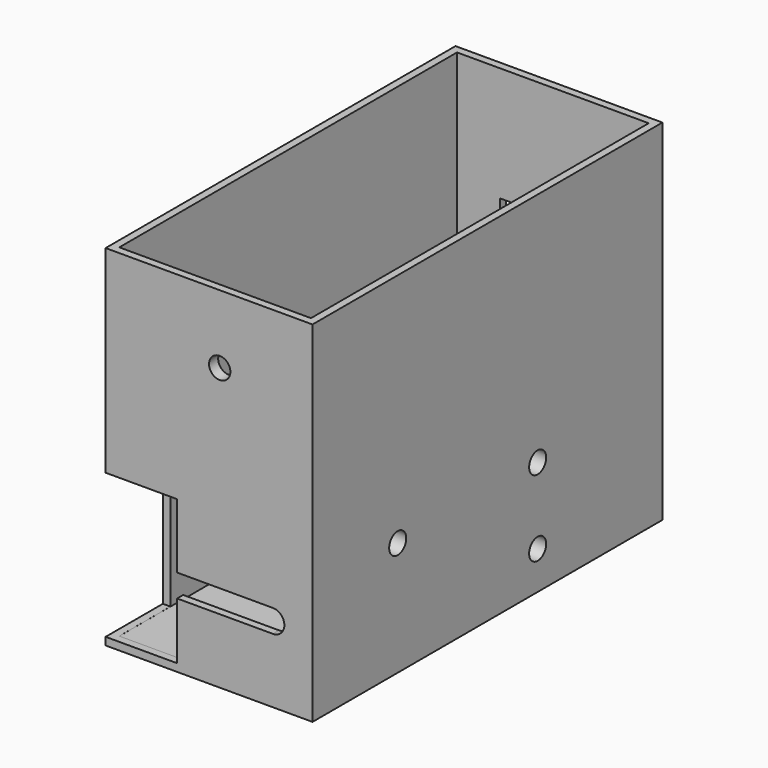
from build123d import *

# Parameters (mm, degrees)
SKETCH_W        = 54.4
SKETCH_H        = 115
PAD_DEPTH       = 92
SKETCH001_W     = 50.4
SKETCH001_H     = 111
POCKET_DEPTH    = 90
POCKET001_DEPTH = 3
SKETCH003_R     = 1.7
POCKET002_DEPTH = 3
POCKET003_DEPTH = 18.99
POCKET004_DEPTH = 2.02
SKETCH006_R     = 5
SKETCH006_R_2   = 1.7
PAD001_DEPTH    = 1.6
POCKET005_DEPTH = 1.8
SKETCH008_R     = 7
PAD002_DEPTH    = 1
PAD003_DEPTH    = 8
POCKET006_DEPTH = 1.5
SKETCH011_R     = 2.8
POCKET007_DEPTH = 54.401
SKETCH012_R     = 7
PAD004_DEPTH    = 1
SKETCH013_R     = 2.8
POCKET008_DEPTH = 4
CHAMFER_SIZE    = 0.98
CHAMFER001_SIZE = 1.58


with BuildPart() as part:
    # Sketch → Pad (new body)
    with BuildSketch(Plane.XY):
        with Locations((27.2, 57.5)):
            Rectangle(SKETCH_W, SKETCH_H)
    extrude(amount=PAD_DEPTH)

    # Sketch001 → Pocket (cut)
    with BuildSketch(Plane.XY.offset(92)):
        with Locations((27.2, 57.5)):
            Rectangle(SKETCH001_W, SKETCH001_H)
    extrude(amount=-POCKET_DEPTH, mode=Mode.SUBTRACT)

    # Sketch002 → Pocket001 (cut)
    with BuildSketch(Plane.XZ):
        with BuildLine():
            Line((3, 23), (44, 23))
            ThreePointArc((44, 17), (47, 20), (44, 23))
            Line((44, 17), (3, 17))
            Line((3, 17), (3, 23))
        make_face()
    extrude(amount=-POCKET001_DEPTH, mode=Mode.SUBTRACT)

    # Sketch003 → Pocket002 (cut)
    with BuildSketch(Plane.XZ.offset(-115)):
        with Locations((7.2, 38)):
            Circle(SKETCH003_R)
        with Locations((47.2, 38)):
            Circle(SKETCH003_R)
        Polygon((13.3, 61.9), (41.1, 61.9), (41.1, 19.85), (35.35, 14.1), (19.05, 14.1), (13.3, 19.85), align=None)
    extrude(amount=POCKET002_DEPTH, mode=Mode.SUBTRACT)

    # Sketch004 → Pocket003 (cut, symmetric)
    with BuildSketch(Plane.XY.offset(21)):
        Polygon((0, 0), (18.8, 0), (18.8, 2.4), (2.4, 18.8), (0, 18.8), align=None)
    extrude(amount=POCKET003_DEPTH, both=True, mode=Mode.SUBTRACT)

    # Sketch005 → Pocket004 (cut)
    with BuildSketch(Plane.YZ):
        with BuildLine():
            Line((106, 29.757359), (106, 19))
            ThreePointArc((101, 14), (104.535534, 15.464466), (106, 19))
            Line((101, 14), (93, 14))
            ThreePointArc((88, 19), (89.464466, 15.464466), (93, 14))
            Line((88, 19), (88, 29.757359))
            ThreePointArc((89.464466, 33.292893), (88.380602, 31.670776), (88, 29.757359))
            Line((89.464466, 33.292893), (95.585786, 39.414214))
            ThreePointArc((98.414214, 39.414214), (97, 40), (95.585786, 39.414214))
            Line((98.414214, 39.414214), (104.535534, 33.292893))
            ThreePointArc((106, 29.757359), (105.619398, 31.670777), (104.535534, 33.292893))
        make_face()
    extrude(amount=POCKET004_DEPTH, mode=Mode.SUBTRACT)

    # Sketch006 → Pad001 (join)
    with BuildSketch(Plane.XZ.offset(-113)):
        with Locations((7.2, 38)):
            Circle(SKETCH006_R)
        with Locations((7.2, 38)):
            Circle(SKETCH006_R_2, mode=Mode.SUBTRACT)
        with Locations((47.2, 38)):
            Circle(SKETCH006_R)
        with Locations((47.2, 38)):
            Circle(SKETCH006_R_2, mode=Mode.SUBTRACT)
    extrude(amount=PAD001_DEPTH)

    # Sketch007 → Pocket005 (cut)
    with BuildSketch(Plane.XZ.offset(-111.4)):
        Polygon((7.2, 41.290897), (4.35, 39.645448), (4.35, 36.354552), (7.2, 34.709103), (10.05, 36.354552), (10.05, 39.645448), align=None)
        Polygon((47.2, 41.290897), (44.35, 39.645448), (44.35, 36.354552), (47.2, 34.709103), (50.05, 36.354552), (50.05, 39.645448), align=None)
    extrude(amount=-POCKET005_DEPTH, mode=Mode.SUBTRACT)

    # Sketch008 → Pad002 (join)
    with BuildSketch(Plane.YZ.offset(2)):
        with Locations((28, 30)):
            Circle(SKETCH008_R)
        with Locations((74, 30)):
            Circle(SKETCH008_R)
        with Locations((74, 10)):
            Circle(SKETCH008_R)
    extrude(amount=PAD002_DEPTH)

    # Sketch009 → Pad003 (join)
    with BuildSketch(Plane.YZ.offset(52.4)):
        with BuildLine():
            Line((31.535537, 26.46447), (29, 23.928932))
            Line((29, 23.928932), (29, 15.928932))
            Line((29, 15.928932), (27, 15.928932))
            Line((27, 15.928932), (27, 23.928932))
            Line((27, 23.928932), (24.464463, 26.46447))
            ThreePointArc((31.535537, 26.46447), (28, 35), (24.464463, 26.46447))
        make_face()
        with BuildLine():
            Line((77.535537, 26.46447), (75, 23.928932))
            Line((75, 23.928932), (75, 16.071068))
            Line((77.535528, 13.53554), (75, 16.071068))
            ThreePointArc((77.535519, 6.464451), (79, 9.999994), (77.535528, 13.53554))
            Line((77.535519, 6.464451), (74.999974, 3.928932))
            Line((74.999974, 1), (74.999974, 3.928932))
            Line((72.999974, 1), (74.999974, 1))
            Line((72.999974, 3.928932), (72.999974, 1))
            Line((70.464455, 6.464477), (72.999974, 3.928932))
            ThreePointArc((70.464461, 13.535528), (69, 10.000004), (70.464455, 6.464477))
            Line((70.464461, 13.535528), (73, 16.071068))
            Line((73, 16.071068), (73, 23.928932))
            Line((73, 23.928932), (70.464463, 26.46447))
            ThreePointArc((77.535537, 26.46447), (74, 35), (70.464463, 26.46447))
        make_face()
    extrude(amount=-PAD003_DEPTH)

    # Sketch010 → Pocket006 (cut, symmetric)
    with BuildSketch(Plane.XZ.offset(-28)):
        Polygon((44.4, 23.928932), (52.4, 15.928932), (44.4, 15.928932), align=None)
    extrude(amount=POCKET006_DEPTH, both=True, mode=Mode.SUBTRACT)

    # Sketch011 → Pocket007 (cut, through all)
    with BuildSketch(Plane.YZ):
        with Locations((28, 30)):
            Circle(SKETCH011_R)
        with Locations((74, 30)):
            Circle(SKETCH011_R)
        with Locations((74, 10)):
            Circle(SKETCH011_R)
    extrude(amount=POCKET007_DEPTH, mode=Mode.SUBTRACT)

    # Sketch012 → Pad004 (join)
    with BuildSketch(Plane.XZ.offset(-2)):
        with Locations((30, 74)):
            Circle(SKETCH012_R)
    extrude(amount=-PAD004_DEPTH)

    # Sketch013 → Pocket008 (cut)
    with BuildSketch(Plane.XZ):
        with Locations((30, 74)):
            Circle(SKETCH013_R)
    extrude(amount=-POCKET008_DEPTH, mode=Mode.SUBTRACT)

    # Chamfer
    chamfer_edges = [part.edges().sort_by_distance(p)[0] for p in [
        (3, 21, 30),
        (3, 67, 30),
        (3, 67, 10),
    ]]
    chamfer(chamfer_edges, length=CHAMFER_SIZE)

    # Chamfer001
    chamfer001_edges = [part.edges().sort_by_distance(p)[0] for p in [
        (42.2, 111.4, 38),
        (2.2, 111.4, 38),
    ]]
    chamfer(chamfer001_edges, length=CHAMFER001_SIZE)


solid = part.part
